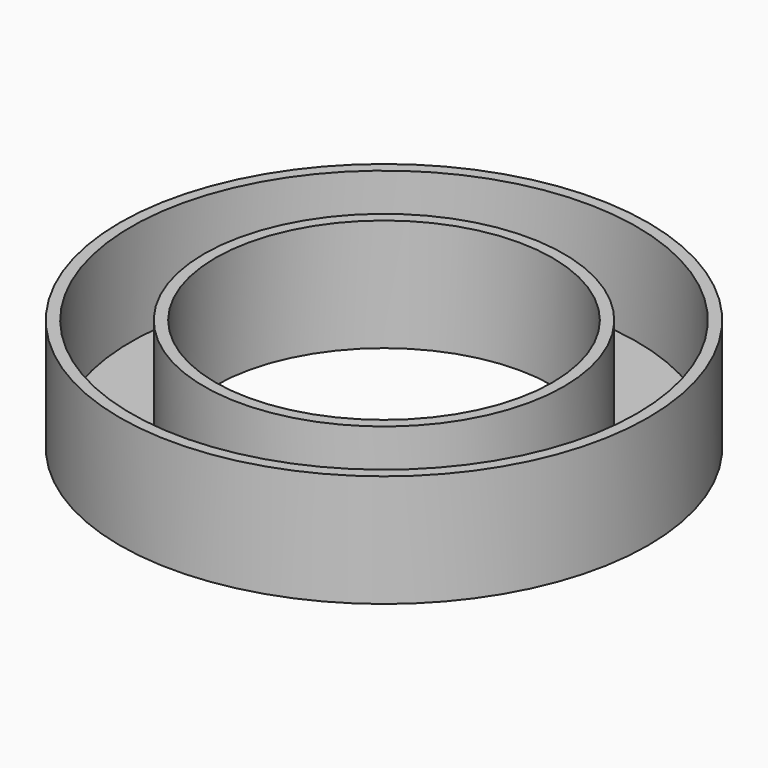
from build123d import *

# Parameters (mm, degrees)
F0_R     = 23.5
F0_R_2   = 15
F1_DEPTH = 10
F2_T     = -1
F3_R     = 1
F3_R_2   = 0.75
F4_DEPTH = 5
F5_R     = 0.75
F6_DEPTH = 1.1


with BuildPart() as f1:
    # F0 (on Top) → F1 (new body)
    with BuildSketch(Plane.XY):
        Circle(F0_R)
        Circle(F0_R_2, mode=Mode.SUBTRACT)
    extrude(amount=F1_DEPTH)

    # F2
    f2_openings = [f1.faces().sort_by_distance(p)[0] for p in [
        (-22.83532, 0, 10),
    ]]
    offset(amount=F2_T, openings=f2_openings)

    # F3 (on face) → F4 (join)
    with BuildSketch(Plane(origin=(0, 0, 0), x_dir=(1, 0, 0), z_dir=(0, 0, -1))):
        with Locations((-19.737165, -0.43914)):
            Circle(F3_R)
        with Locations((-19.737165, -0.43914)):
            Circle(F3_R_2, mode=Mode.SUBTRACT)
    extrude(amount=F4_DEPTH)

    # F5 (on face) → F6 (cut)
    with BuildSketch(Plane(origin=(0, 0, 0), x_dir=(1, 0, 0), z_dir=(0, 0, -1))):
        with Locations((-19.737165, -0.43914)):
            Circle(F5_R)
    extrude(amount=-F6_DEPTH, mode=Mode.SUBTRACT)


solid = f1.part
